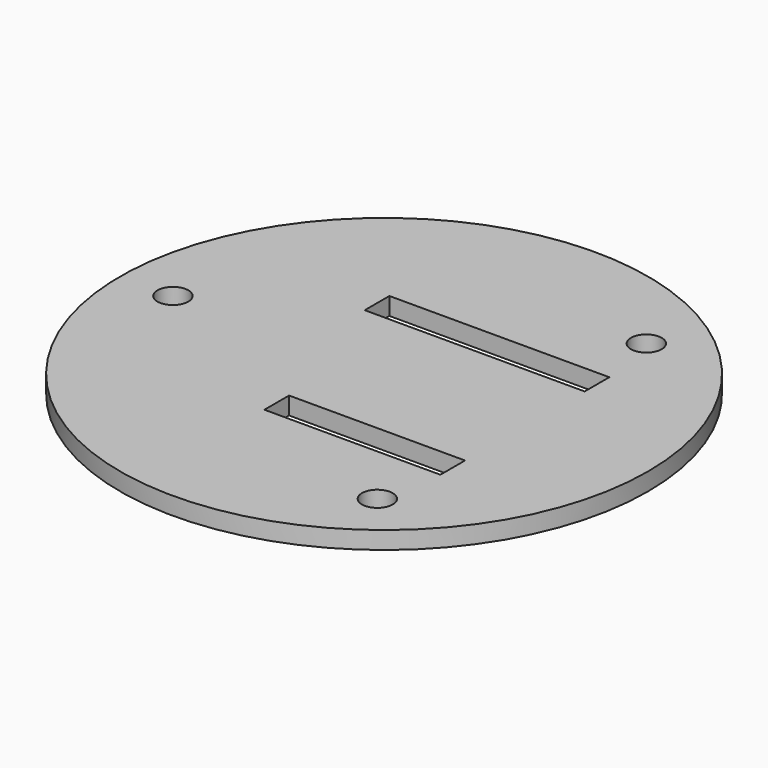
from build123d import *

# Parameters (mm, degrees)
SKETCH003_R     = 30
PAD001_DEPTH    = 2
SKETCH012_R     = 1.75
POCKET005_DEPTH = 5
SKETCH024_W     = 25
SKETCH024_H     = 3.5
SKETCH024_W_2   = 20
POCKET016_DEPTH = 5


with BuildPart() as part:
    # Sketch003 → Pad001 (new body)
    with BuildSketch(Plane.XY):
        Circle(SKETCH003_R)
    extrude(amount=PAD001_DEPTH)

    # Sketch012 (on Face3 of Pad001) → Pocket005 (cut)
    with BuildSketch(Plane.XY.offset(2)):
        with Locations((14.520833, 19.108778)):
            Circle(SKETCH012_R)
        with Locations((-24, 0)):
            Circle(SKETCH012_R)
        with Locations((14.520833, -19.108778)):
            Circle(SKETCH012_R)
    extrude(amount=-POCKET005_DEPTH, mode=Mode.SUBTRACT)

    # Sketch024 (on Face3 of Pocket005) → Pocket016 (cut)
    with BuildSketch(Plane.XY.offset(2)):
        with Locations((3.5, 10.25)):
            Rectangle(SKETCH024_W, SKETCH024_H)
        with Locations((6, -10.25)):
            Rectangle(SKETCH024_W_2, SKETCH024_H)
    extrude(amount=-POCKET016_DEPTH, mode=Mode.SUBTRACT)


with BuildPart() as part_1:
    # Body001 placement: moved
    add(part.part.moved(Location((0, 0, 26))))


solid = part_1.part
